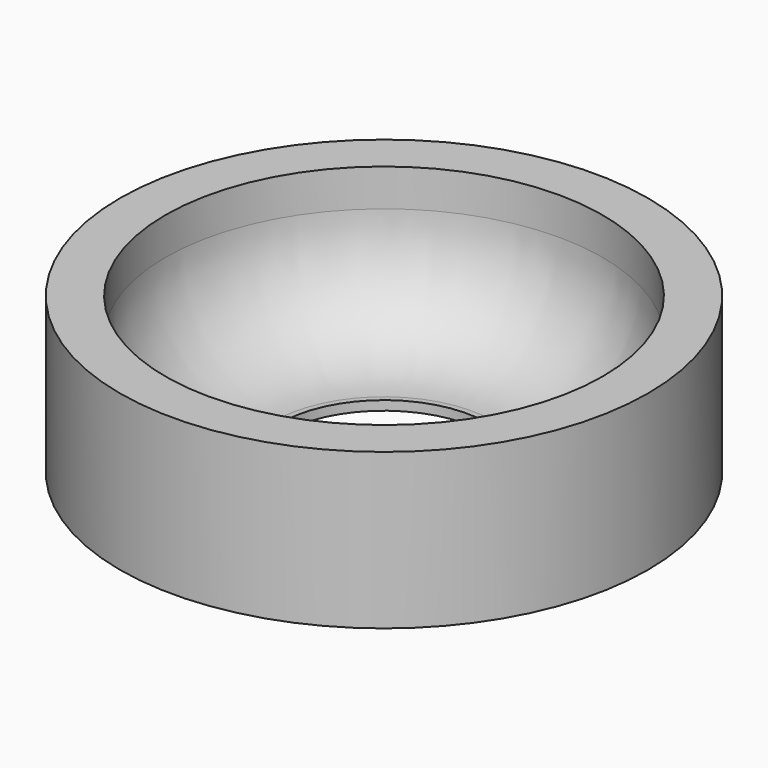
from build123d import *

# Parameters (mm, degrees)
F0_R     = 43.18
F1_DEPTH = 25.4
F2_R     = 17.018
F3_DEPTH = 27.686
F4_R     = 35.7378
F5_DEPTH = 23.876
F6_R     = 17.783097


with BuildPart() as f1:
    # F0 (on Top) → F1 (new body)
    with BuildSketch(Plane.XY):
        Circle(F0_R)
    extrude(amount=F1_DEPTH)

    # F2 (on face) → F3 (cut)
    with BuildSketch(Plane.XY):
        Circle(F2_R)
    extrude(amount=F3_DEPTH, mode=Mode.SUBTRACT)

    # F4 (on face) → F5 (cut)
    with BuildSketch(Plane.XY.offset(25.4)):
        Circle(F4_R)
    extrude(amount=-F5_DEPTH, mode=Mode.SUBTRACT)

    # F6
    f6_edges = [f1.edges().sort_by_distance(p)[0] for p in [
        (-35.7378, 0, 1.524),
    ]]
    fillet(f6_edges, radius=F6_R)


solid = f1.part
